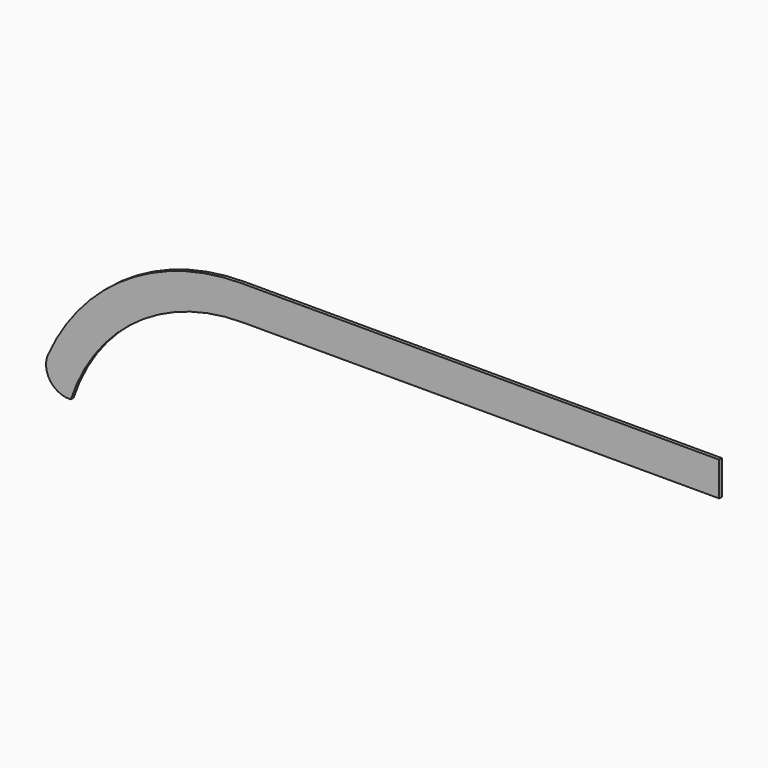
from build123d import *

# Parameters (mm, degrees)
F1_DEPTH = 0.762
F2_R     = 5.08


with BuildPart() as f1:
    # F0 (on Front) → F1 (new body)
    with BuildSketch(Plane.XZ):
        with BuildLine():
            Line((75.248664, -7.62), (75.248664, 0))
            Line((75.248664, 0), (-31.338066, 0))
            ThreePointArc((-31.338066, 0), (-60.236503, -9.828041), (-77.151336, -35.23667))
            Line((-77.151336, -35.23667), (-69.531336, -35.23667))
            ThreePointArc((-69.531336, -35.23667), (-54.903965, -15.247438), (-31.338066, -7.62))
            Line((-31.338066, -7.62), (75.248664, -7.62))
        make_face()
    extrude(amount=-F1_DEPTH)

    # F2
    f2_edges = [f1.edges().sort_by_distance(p)[0] for p in [
        (-77.151336, 0.381, -35.23667),
    ]]
    fillet(f2_edges, radius=F2_R)


solid = f1.part
